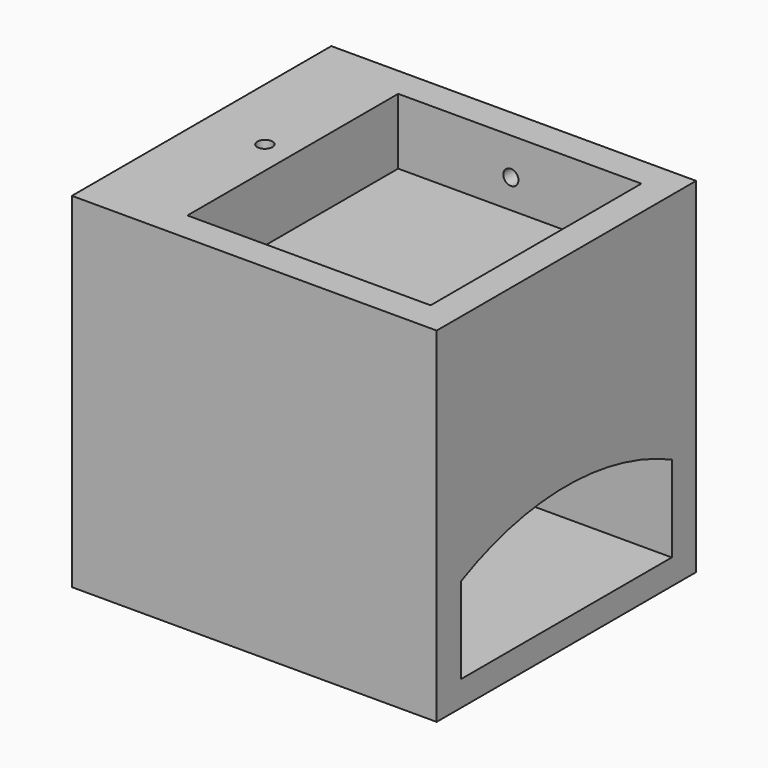
from build123d import *

# Parameters (mm, degrees)
F0_W      = 914.4
F0_H      = 812.8
F1_DEPTH  = 863.6
F3_DEPTH  = 838.2
F4_W      = 609.6
F4_H      = 660.4
F5_DEPTH  = 457.2
F6_W      = 660.4
F6_H      = 228.6
F7_DEPTH  = 152.4
F8_R      = 19.05
F9_DEPTH  = 228.6
F10_W     = 660.4
F10_H     = 63.5
F11_DEPTH = 609.6
F12_R     = 19.05
F13_DEPTH = 76.201
F14_R     = 76.2
F15_DEPTH = 54.6637094628
F16_R     = 101.6
F17_DEPTH = 76.201


with BuildPart() as f1:
    # F0 (on Top) → F1 (new body)
    with BuildSketch(Plane.XY):
        Rectangle(F0_W, F0_H)
    extrude(amount=F1_DEPTH)

    # F2 (on face) → F3 (cut)
    with BuildSketch(Plane.YZ.offset(457.2)):
        with BuildLine():
            Line((330.2, 63.5), (330.2, 279.4))
            ThreePointArc((330.2, 279.4), (0, 355.6), (-330.2, 279.4))
            Line((-330.2, 279.4), (-330.2, 63.5))
            Line((-330.2, 63.5), (330.2, 63.5))
        make_face()
    extrude(amount=-F3_DEPTH, mode=Mode.SUBTRACT)

    # F4 (on face) → F5 (cut)
    with BuildSketch(Plane.XY.offset(863.6)):
        with Locations((76.2, 0)):
            Rectangle(F4_W, F4_H)
    extrude(amount=-F5_DEPTH, mode=Mode.SUBTRACT)

    # F6 (on face) → F7 (cut)
    with BuildSketch(Plane.YZ.offset(-228.6)):
        with Locations((0, 520.7)):
            Rectangle(F6_W, F6_H)
    extrude(amount=-F7_DEPTH, mode=Mode.SUBTRACT)

    # F8 (on face) → F9 (cut, through all)
    with BuildSketch(Plane.XY.offset(863.6)):
        with Locations((-298.45, 0)):
            Circle(F8_R)
    extrude(amount=-F9_DEPTH, mode=Mode.SUBTRACT)

    # F10 (on face) → F11 (join, through all)
    with BuildSketch(Plane.YZ.offset(-228.6)):
        with Locations((0, 666.75)):
            Rectangle(F10_W, F10_H)
    extrude(amount=F11_DEPTH)

    # F12 (on face) → F13 (cut, through all)
    with BuildSketch(Plane.XZ.offset(-330.2)):
        with Locations((53.8625605404, 771.0824012756)):
            Circle(F12_R)
    extrude(amount=-F13_DEPTH, mode=Mode.SUBTRACT)

    # F14 (on face) → F15 (cut, through all)
    with BuildSketch(Plane.XY.offset(406.4)):
        Circle(F14_R)
    extrude(amount=-F15_DEPTH, mode=Mode.SUBTRACT)

    # F16 (on face) → F17 (cut, through all)
    with BuildSketch(Plane.YZ.offset(-381)):
        with Locations((0, 171.45)):
            Circle(F16_R)
    extrude(amount=-F17_DEPTH, mode=Mode.SUBTRACT)


solid = f1.part
